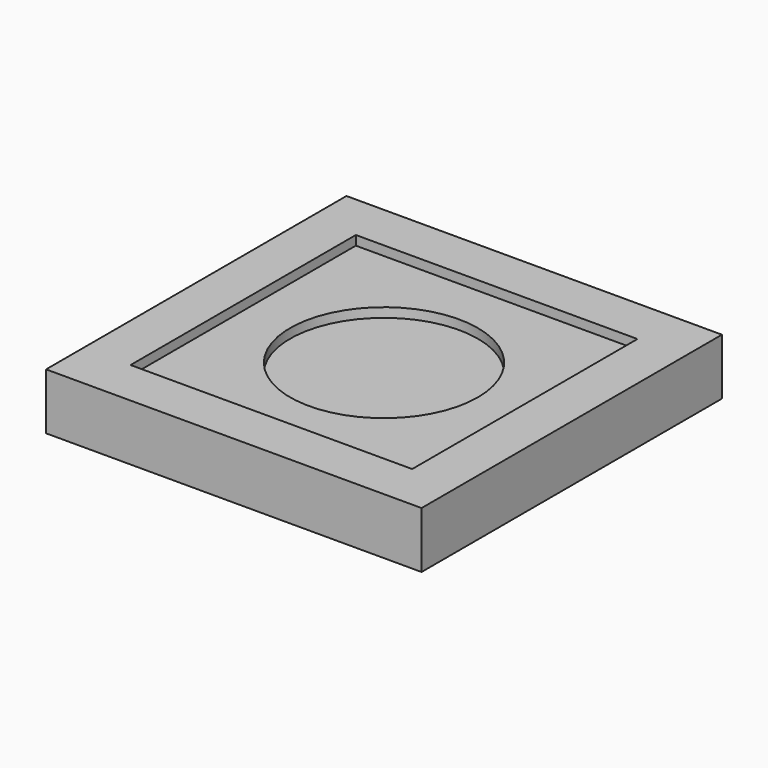
from build123d import *

# Parameters (mm, degrees)
CUBE001_W      = 30
CUBE001_H      = 30
CUBE001_DEPTH  = 1
CYLINDER_R     = 10
CYLINDER_DEPTH = 2
CUBE_W         = 40
CUBE_H         = 40
CUBE_DEPTH     = 6


with BuildPart() as cube001:
    # cube001 → cube001 (new body)
    with BuildSketch(Plane(origin=(-15, -15, 2), x_dir=(1, 0, 0), z_dir=(0, 0, 1))):
        with Locations((15, 15)):
            Rectangle(CUBE001_W, CUBE001_H)
    extrude(amount=CUBE001_DEPTH)


with BuildPart() as union:
    # cylinder → cylinder (new body)
    with BuildSketch(Plane.XY.offset(1)):
        Circle(CYLINDER_R)
    extrude(amount=CYLINDER_DEPTH)

    # union: union cube001
    add(cube001.part)


with BuildPart() as model_difference:
    # cube → cube (new body)
    with BuildSketch(Plane(origin=(-20, -20, -3), x_dir=(1, 0, 0), z_dir=(0, 0, 1))):
        with Locations((20, 20)):
            Rectangle(CUBE_W, CUBE_H)
    extrude(amount=CUBE_DEPTH)

    # difference: cut union
    add(union.part, mode=Mode.SUBTRACT)


with BuildPart() as model_difference_1:
    # Clone placement: moved
    add(model_difference.part.moved(Location((20, 20, -3))))


solid = model_difference_1.part
